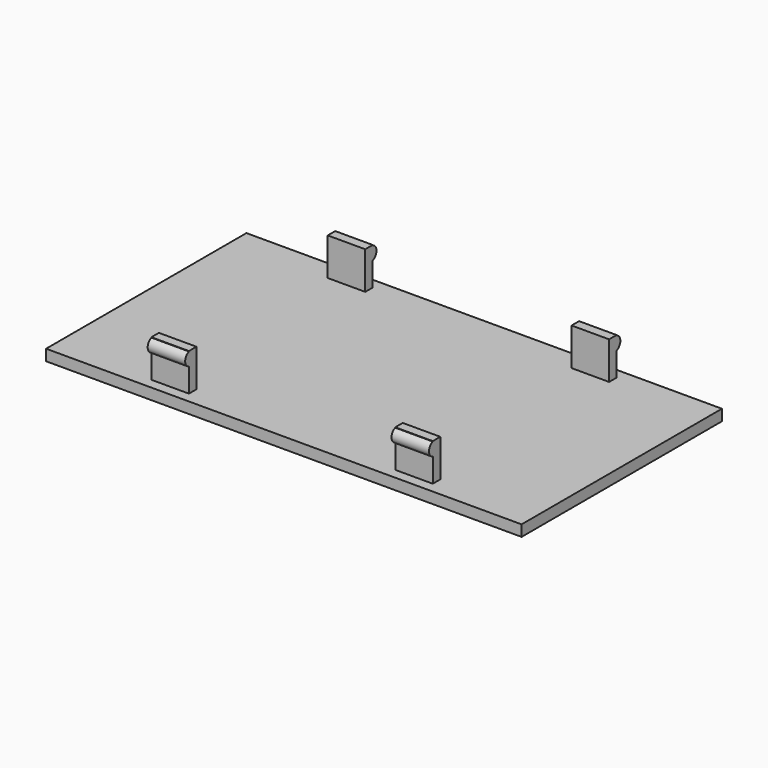
from build123d import *

# Parameters (mm, degrees)
SKETCH005_W  = 128.778
SKETCH005_H  = 67.818
PAD004_DEPTH = 2.9972
SKETCH006_W  = 10.16
SKETCH006_H  = 2.54
PAD005_DEPTH = 10.16
SKETCH007_R  = 1.905
PAD006_DEPTH = 10.16
SKETCH008_R  = 1.905
PAD007_DEPTH = 10.16


with BuildPart() as part:
    # Sketch005 → Pad004 (new body)
    with BuildSketch(Plane(origin=(0, 0, -32.258), x_dir=(1, 0, 0), z_dir=(0, 0, -1))):
        Rectangle(SKETCH005_W, SKETCH005_H)
    extrude(amount=PAD004_DEPTH)

    # Sketch006 → Pad005 (new body)
    with BuildSketch(Plane.XY.offset(-32.258)):
        with Locations((-33.02, -29.845)):
            Rectangle(SKETCH006_W, SKETCH006_H)
        with Locations((33.02, -29.845)):
            Rectangle(SKETCH006_W, SKETCH006_H)
        with Locations((33.02, 29.845)):
            Rectangle(SKETCH006_W, SKETCH006_H)
        with Locations((-33.02, 29.845)):
            Rectangle(SKETCH006_W, SKETCH006_H)
    extrude(amount=PAD005_DEPTH)

    # Sketch007 → Pad006 (new body)
    with BuildSketch(Plane(origin=(38.1, 0, -32.258), x_dir=(0, -1, 0), z_dir=(1, 0, 0))):
        with Locations((-30.48, -8.255)):
            Circle(SKETCH007_R)
        with Locations((30.48, -8.255)):
            Circle(SKETCH007_R)
    extrude(amount=-PAD006_DEPTH)

    # Sketch008 → Pad007 (new body)
    with BuildSketch(Plane(origin=(-38.1, 0, -32.258), x_dir=(0, 1, 0), z_dir=(-1, 0, 0))):
        with Locations((-30.48, -8.255)):
            Circle(SKETCH008_R)
        with Locations((30.48, -8.255)):
            Circle(SKETCH008_R)
    extrude(amount=-PAD007_DEPTH)


solid = part.part
